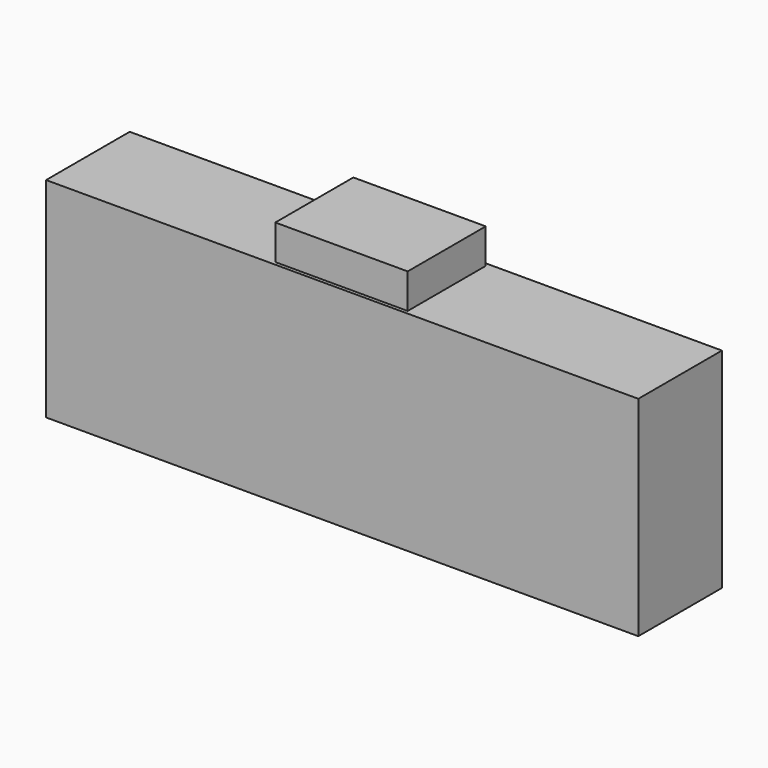
from build123d import *

# Parameters (mm, degrees)
BOX006_W     = 1.9
BOX006_H     = 1.4
BOX006_DEPTH = 2
BOX005_W     = 8.5
BOX005_H     = 1.5
BOX005_DEPTH = 3


with BuildPart() as cubo007:
    # Box006 → Box006 (new body)
    with BuildSketch(Plane(origin=(-1, 7.6, 3.5), x_dir=(1, 0, 0), z_dir=(0, 0, 1))):
        with Locations((0.95, 0.7)):
            Rectangle(BOX006_W, BOX006_H)
    extrude(amount=BOX006_DEPTH)


with BuildPart() as obj1:
    # Box005 → Box005 (new body)
    with BuildSketch(Plane(origin=(-4.25, 7.55, 2), x_dir=(1, 0, 0), z_dir=(0, 0, 1))):
        with Locations((4.25, 0.75)):
            Rectangle(BOX005_W, BOX005_H)
    extrude(amount=BOX005_DEPTH)

    # Fusion: union Cubo007
    add(cubo007.part)


with BuildPart() as obj1_1:
    # Fusion placement: moved
    add(obj1.part.moved(Location((0.05, 0, 18))))


solid = obj1_1.part
